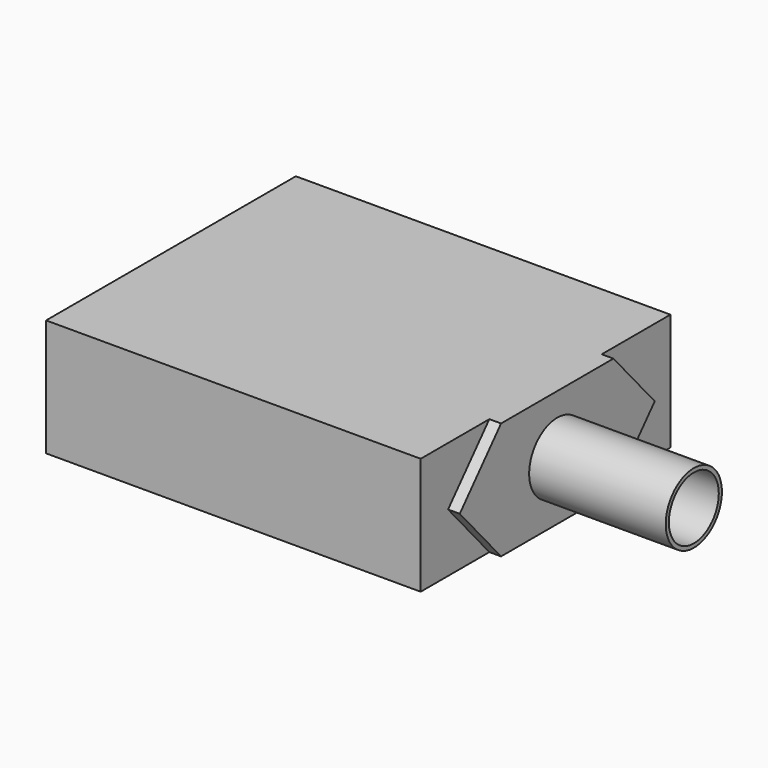
from build123d import *

# Parameters (mm, degrees)
F0_W     = 48
F0_H     = 15
F1_DEPTH = 20
F2_R     = 4.5
F3_DEPTH = 1.5
F4_DEPTH = 19
F5_T     = -0.5


with BuildPart() as f1:
    # F0 (on Front) → F1 (new body, symmetric)
    with BuildSketch(Plane.XZ):
        with Locations((2, 7.5)):
            Rectangle(F0_W, F0_H)
    extrude(amount=F1_DEPTH, both=True)

    # F2 (on face) → F3 (join)
    with BuildSketch(Plane.YZ.offset(26)):
        Polygon((-15.6143782777, 7.5), (-9, 0), (0, 0), (9, 0), (15.6143782777, 7.5), (9, 15), (0, 15), (-9, 15), align=None)
        with Locations((0, 7.5)):
            Circle(F2_R, mode=Mode.SUBTRACT)
    extrude(amount=F3_DEPTH)

    # F4 (add): a face of the model
    f4_faces = [f1.faces().sort_by_distance(p)[0] for p in [
        (26, 0, 7.5),
    ]]
    extrude(f4_faces, amount=F4_DEPTH)

    # F5
    f5_openings = [f1.faces().sort_by_distance(p)[0] for p in [
        (45, 0, 7.5),
    ]]
    offset(amount=F5_T, openings=f5_openings, kind=Kind.INTERSECTION)


solid = f1.part
